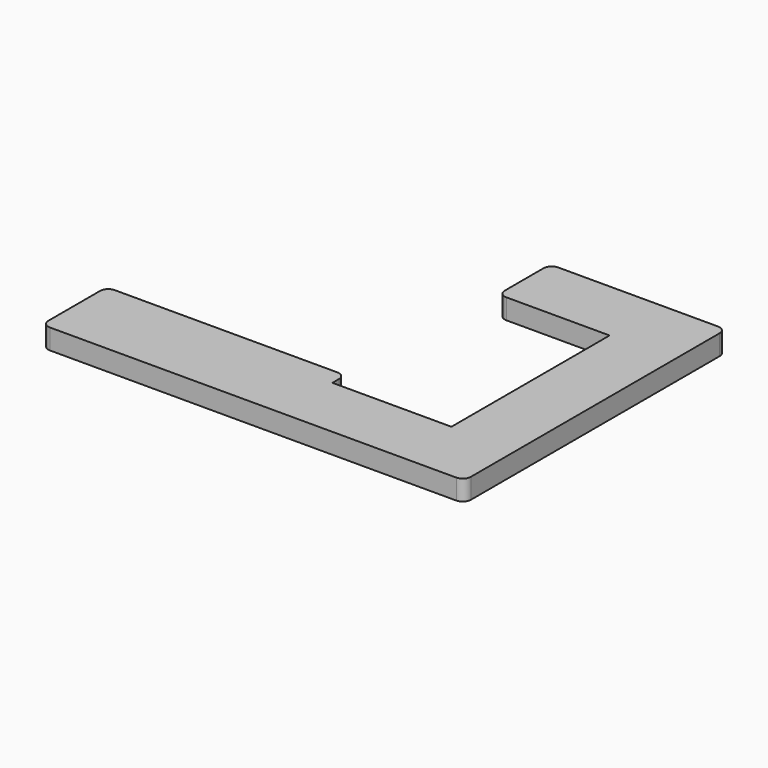
from build123d import *

# Parameters (mm, degrees)
F1_DEPTH = 5


with BuildPart() as f1:
    # F0 (on Top) → F1 (new body)
    with BuildSketch(Plane.XY):
        with BuildLine():
            ThreePointArc((-67.163906, 30.917319), (-66.578119, 29.503106), (-65.163906, 28.917319))
            Line((-65.163906, 28.917319), (-39.663906, 28.917319))
            Line((-39.663906, 28.917319), (-39.663906, -19.932681))
            Line((-39.663906, -19.932681), (-69.063906, -19.932681))
            Line((-69.063906, -19.932681), (-69.063906, -17.932681))
            ThreePointArc((-69.063906, -17.932681), (-69.649692, -16.518467), (-71.063906, -15.932681))
            Line((-71.063906, -15.932681), (-88.063906, -15.932681))
            Line((-88.063906, -15.932681), (-126.063906, -15.932681))
            ThreePointArc((-126.063906, -15.932681), (-127.478119, -16.518467), (-128.063906, -17.932681))
            Line((-128.063906, -17.932681), (-128.063906, -33.932681))
            ThreePointArc((-128.063906, -33.932681), (-127.478119, -35.346894), (-126.063906, -35.932681))
            Line((-126.063906, -35.932681), (-39.663906, -35.932681))
            Line((-39.663906, -35.932681), (-25.663906, -35.932681))
            ThreePointArc((-25.663906, -35.932681), (-24.249692, -35.346894), (-23.663906, -33.932681))
            Line((-23.663906, -33.932681), (-23.663906, -19.932681))
            Line((-23.663906, -19.932681), (-23.663906, 28.917319))
            Line((-23.663906, 28.917319), (-23.663906, 42.917319))
            ThreePointArc((-23.663906, 42.917319), (-24.249692, 44.331533), (-25.663906, 44.917319))
            Line((-25.663906, 44.917319), (-65.163906, 44.917319))
            ThreePointArc((-65.163906, 44.917319), (-66.578119, 44.331533), (-67.163906, 42.917319))
            Line((-67.163906, 42.917319), (-67.163906, 30.917319))
        make_face()
    extrude(amount=F1_DEPTH)


solid = f1.part
